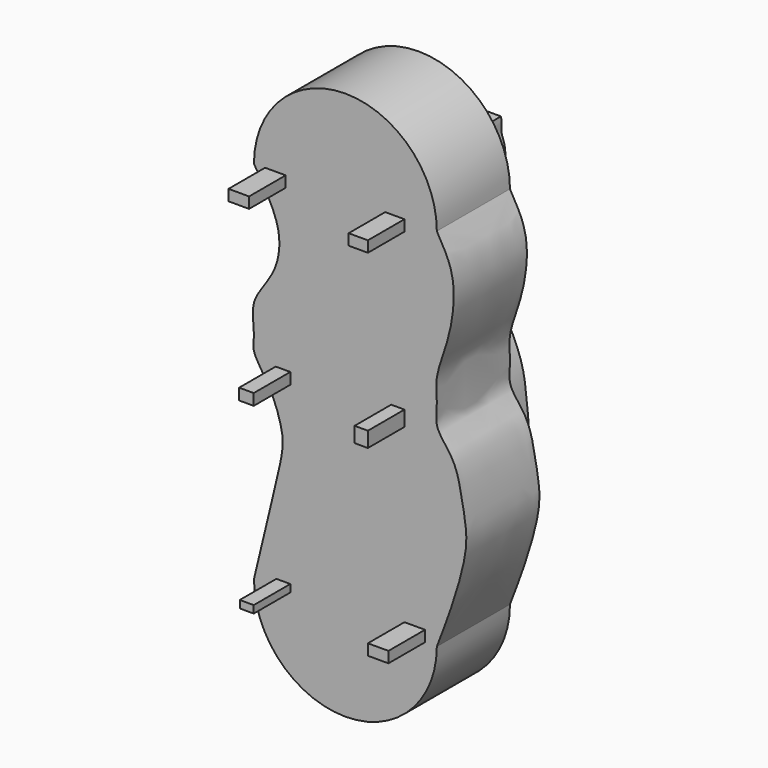
from build123d import *

# Parameters (mm, degrees)
F0_W     = 3.687097691
F0_H     = 4.2401612736
F0_W_2   = 4.0558064356
F0_H_2   = 3.1340322457
F0_W_3   = 5.7149995118
F0_H_3   = 3.0520937026
F0_W_4   = 3.871451132
F0_H_4   = 2.0791524881
F0_W_5   = 5.7150013745
F0_W_6   = 5.3462898359
F1_DEPTH = 25.4
F2_DEPTH = 25.4
F3_DEPTH = 25.4
F4_DEPTH = 38.1


with BuildPart() as f1:
    # F0 (on Front) → F1 (new body)
    with BuildSketch(Plane.XZ):
        with BuildLine():
            ThreePointArc((-25.4, -50.8), (0, -76.2), (25.4, -50.8))
            Line((25.4, -50.8), (22.1225824207, -50.8))
            Line((22.1225824207, -50.8), (16.4075810462, -50.8))
            Line((16.4075810462, -50.8), (6.0837119818, -50.8))
            Line((6.0837119818, -50.8), (-8.6646769196, -50.8))
            Line((-8.6646769196, -50.8), (-15.3014520183, -50.8))
            Line((-15.3014520183, -50.8), (-19.1729031503, -50.8))
            Line((-19.1729031503, -50.8), (-25.4, -50.8))
        make_face()
        with BuildLine():
            add(Edge.make_bspline(
                [(25.4, 50.8), (26.4777169783, 48.9479202677), (28.6861178129, 45.1527360877), (30.6932831349, 38.2079324244), (29.2102996032, 25.6833194496), (24.6181151455, 15.2644920213), (25.7208382238, 8.8851894458), (24.8210743035, 3.3793927812), (27.3376351659, -0.1317957862), (31.0361416521, -4.8152447407), (32.6289703178, -13.8253537267), (33.7770047901, -20.2747103968), (33.428230529, -26.4357670674), (30.3215961917, -37.8680055499), (27.0946961941, -46.3470134235), (25.4, -50.8)],
                knots=[0, 0, 0, 0, 0.0692376704, 0.1418781853, 0.2392837533, 0.3315708581, 0.4002107054, 0.4625003579, 0.5171786982, 0.583671378, 0.6664731761, 0.7364677518, 0.8031231248, 0.8966046387, 1, 1, 1, 1], degree=3))
            Line((25.4, 50.8), (16.4075810462, 50.8))
            Line((16.4075810462, 50.8), (16.4075810462, 47.7479062974))
            Line((16.4075810462, 47.7479062974), (11.0612912104, 47.7479062974))
            Line((11.0612912104, 47.7479062974), (11.0612912104, 50.8))
            Line((11.0612912104, 50.8), (2.5809679646, 50.8))
            add(Edge.make_bspline(
                [(6.0837119818, -50.8), (6.7526639673, -49.080617066), (8.4312184516, -44.7662895858), (11.3526863866, -31.110646258), (9.7718678352, -16.7741945721), (8.9898940513, -8.9270108424), (5.746817019, -0.2348690969), (-0.5661221974, 9.6149802874), (0.0008754514, 12.054506702), (1.1370686549, 18.126460212), (3.4894802849, 22.4144521985), (4.2460147527, 34.4624233221), (3.960019898, 44.2593532606), (2.5398283889, 46.6632712676), (2.8657296807, 49.0471311706), (2.6723084934, 50.2377475739), (2.5809679646, 50.8)],
                knots=[0, 0, 0, 0, 0.0680835046, 0.1708371819, 0.2755848247, 0.3513981135, 0.4367786008, 0.5279622658, 0.5704266042, 0.6357952172, 0.6975722078, 0.7934500663, 0.8792600663, 0.9226956826, 0.963494086, 1, 1, 1, 1], degree=3))
            Line((6.0837119818, -50.8), (16.4075810462, -50.8))
            Line((16.4075810462, -50.8), (16.4075810462, -47.7479062974))
            Line((16.4075810462, -47.7479062974), (22.1225824207, -47.7479062974))
            Line((22.1225824207, -47.7479062974), (22.1225824207, -50.8))
            Line((22.1225824207, -50.8), (25.4, -50.8))
        make_face()
        with Locations((14.5640322007, 2.1200806368)):
            Rectangle(F0_W, F0_H, mode=Mode.SUBTRACT)
        with BuildLine():
            Line((-22.3069358617, 50.8), (-25.4, 50.8))
            add(Edge.make_bspline(
                [(-25.4, 50.8), (-23.9457888424, 48.4062601984), (-21.0240229952, 43.5968161487), (-17.5382201021, 35.4945567937), (-19.2672156417, 25.1355979551), (-26.9197620067, 17.5072559241), (-24.8862082187, 9.032964073), (-26.3256337578, 4.7152512749), (-20.356751104, -2.5534247793), (-17.4203871867, -11.891004327), (-17.2704408034, -16.799434963), (-19.7618335753, -27.3251135996), (-23.2563408131, -41.8747303107), (-25.4, -50.8)],
                knots=[0, 0, 0, 0, 0.0868305692, 0.1744578772, 0.2688447789, 0.3645550375, 0.4478464969, 0.508128426, 0.5974149732, 0.6911047095, 0.7553911578, 0.8499479452, 1, 1, 1, 1], degree=3))
            Line((-25.4, -50.8), (-19.1729031503, -50.8))
            Line((-19.1729031503, -50.8), (-19.1729031503, -48.7208475119))
            Line((-19.1729031503, -48.7208475119), (-15.3014520183, -48.7208475119))
            Line((-15.3014520183, -48.7208475119), (-15.3014520183, -50.8))
            Line((-15.3014520183, -50.8), (-8.6646769196, -50.8))
            add(Edge.make_bspline(
                [(-8.6646769196, -50.8), (-7.8882136411, -48.7208475119), (-5.9978741559, -43.6590446512), (-2.4524628144, -29.5189412564), (-2.8134786099, -16.0801708021), (-3.4674009438, -11.6014648726), (-7.2501120433, -1.4562577191), (-13.4067600488, 7.2161554479), (-12.8603591818, 11.3475544545), (-12.4979329814, 17.3130331381), (-7.8686094851, 22.6070259059), (-6.7588523591, 36.2531826531), (-9.6606783541, 42.5298504496), (-10.5829903078, 47.9757970771), (-11.061290279, 50.8)],
                knots=[0, 0, 0, 0, 0.0775376634, 0.1887693993, 0.2924121888, 0.3530814771, 0.4470014848, 0.5397176399, 0.5961130824, 0.6628348922, 0.7386673918, 0.8418289129, 0.917974362, 1, 1, 1, 1], degree=3))
            Line((-11.061290279, 50.8), (-16.5919363499, 50.8))
            Line((-16.5919363499, 50.8), (-16.5919363499, 47.7479062974))
            Line((-16.5919363499, 47.7479062974), (-22.3069358617, 47.7479062974))
            Line((-22.3069358617, 47.7479062974), (-22.3069358617, 50.8))
        make_face()
        with Locations((-17.3293552361, 1.5670161229)):
            Rectangle(F0_W_2, F0_H_2, mode=Mode.SUBTRACT)
        with BuildLine():
            Line((16.4075810462, 50.8), (25.4, 50.8))
            ThreePointArc((25.4, 50.8), (0, 76.2), (-25.4, 50.8))
            Line((-25.4, 50.8), (-22.3069358617, 50.8))
            Line((-22.3069358617, 50.8), (-16.5919363499, 50.8))
            Line((-16.5919363499, 50.8), (-11.061290279, 50.8))
            Line((-11.061290279, 50.8), (2.5809679646, 50.8))
            Line((2.5809679646, 50.8), (11.0612912104, 50.8))
            Line((11.0612912104, 50.8), (16.4075810462, 50.8))
        make_face()
        with Locations((-19.4494361058, 49.2739531487)):
            Rectangle(F0_W_3, F0_H_3)
        with BuildLine():
            add(Edge.make_bspline(
                [(6.0837119818, -50.8), (6.7526639673, -49.080617066), (8.4312184516, -44.7662895858), (11.3526863866, -31.110646258), (9.7718678352, -16.7741945721), (8.9898940513, -8.9270108424), (5.746817019, -0.2348690969), (-0.5661221974, 9.6149802874), (0.0008754514, 12.054506702), (1.1370686549, 18.126460212), (3.4894802849, 22.4144521985), (4.2460147527, 34.4624233221), (3.960019898, 44.2593532606), (2.5398283889, 46.6632712676), (2.8657296807, 49.0471311706), (2.6723084934, 50.2377475739), (2.5809679646, 50.8)],
                knots=[0, 0, 0, 0, 0.0680835046, 0.1708371819, 0.2755848247, 0.3513981135, 0.4367786008, 0.5279622658, 0.5704266042, 0.6357952172, 0.6975722078, 0.7934500663, 0.8792600663, 0.9226956826, 0.963494086, 1, 1, 1, 1], degree=3))
            Line((2.5809679646, 50.8), (-11.061290279, 50.8))
            add(Edge.make_bspline(
                [(-8.6646769196, -50.8), (-7.8882136411, -48.7208475119), (-5.9978741559, -43.6590446512), (-2.4524628144, -29.5189412564), (-2.8134786099, -16.0801708021), (-3.4674009438, -11.6014648726), (-7.2501120433, -1.4562577191), (-13.4067600488, 7.2161554479), (-12.8603591818, 11.3475544545), (-12.4979329814, 17.3130331381), (-7.8686094851, 22.6070259059), (-6.7588523591, 36.2531826531), (-9.6606783541, 42.5298504496), (-10.5829903078, 47.9757970771), (-11.061290279, 50.8)],
                knots=[0, 0, 0, 0, 0.0775376634, 0.1887693993, 0.2924121888, 0.3530814771, 0.4470014848, 0.5397176399, 0.5961130824, 0.6628348922, 0.7386673918, 0.8418289129, 0.917974362, 1, 1, 1, 1], degree=3))
            Line((-8.6646769196, -50.8), (6.0837119818, -50.8))
        make_face()
        with Locations((-17.3293552361, 1.5670161229)):
            Rectangle(F0_W_2, F0_H_2)
        with Locations((-17.2371775843, -49.7604237559)):
            Rectangle(F0_W_4, F0_H_4)
        with Locations((19.2650817335, -49.2739531487)):
            Rectangle(F0_W_5, F0_H_3)
        with Locations((14.5640322007, 2.1200806368)):
            Rectangle(F0_W, F0_H)
        with Locations((13.7344361283, 49.2739531487)):
            Rectangle(F0_W_6, F0_H_3)
    extrude(amount=F1_DEPTH)

    # F0 (on Front) → F2 (join)
    with BuildSketch(Plane.XZ):
        with BuildLine():
            add(Edge.make_bspline(
                [(25.4, 50.8), (26.4777169783, 48.9479202677), (28.6861178129, 45.1527360877), (30.6932831349, 38.2079324244), (29.2102996032, 25.6833194496), (24.6181151455, 15.2644920213), (25.7208382238, 8.8851894458), (24.8210743035, 3.3793927812), (27.3376351659, -0.1317957862), (31.0361416521, -4.8152447407), (32.6289703178, -13.8253537267), (33.7770047901, -20.2747103968), (33.428230529, -26.4357670674), (30.3215961917, -37.8680055499), (27.0946961941, -46.3470134235), (25.4, -50.8)],
                knots=[0, 0, 0, 0, 0.0692376704, 0.1418781853, 0.2392837533, 0.3315708581, 0.4002107054, 0.4625003579, 0.5171786982, 0.583671378, 0.6664731761, 0.7364677518, 0.8031231248, 0.8966046387, 1, 1, 1, 1], degree=3))
            Line((25.4, 50.8), (16.4075810462, 50.8))
            Line((16.4075810462, 50.8), (16.4075810462, 47.7479062974))
            Line((16.4075810462, 47.7479062974), (11.0612912104, 47.7479062974))
            Line((11.0612912104, 47.7479062974), (11.0612912104, 50.8))
            Line((11.0612912104, 50.8), (2.5809679646, 50.8))
            add(Edge.make_bspline(
                [(6.0837119818, -50.8), (6.7526639673, -49.080617066), (8.4312184516, -44.7662895858), (11.3526863866, -31.110646258), (9.7718678352, -16.7741945721), (8.9898940513, -8.9270108424), (5.746817019, -0.2348690969), (-0.5661221974, 9.6149802874), (0.0008754514, 12.054506702), (1.1370686549, 18.126460212), (3.4894802849, 22.4144521985), (4.2460147527, 34.4624233221), (3.960019898, 44.2593532606), (2.5398283889, 46.6632712676), (2.8657296807, 49.0471311706), (2.6723084934, 50.2377475739), (2.5809679646, 50.8)],
                knots=[0, 0, 0, 0, 0.0680835046, 0.1708371819, 0.2755848247, 0.3513981135, 0.4367786008, 0.5279622658, 0.5704266042, 0.6357952172, 0.6975722078, 0.7934500663, 0.8792600663, 0.9226956826, 0.963494086, 1, 1, 1, 1], degree=3))
            Line((6.0837119818, -50.8), (16.4075810462, -50.8))
            Line((16.4075810462, -50.8), (16.4075810462, -47.7479062974))
            Line((16.4075810462, -47.7479062974), (22.1225824207, -47.7479062974))
            Line((22.1225824207, -47.7479062974), (22.1225824207, -50.8))
            Line((22.1225824207, -50.8), (25.4, -50.8))
        make_face()
        with Locations((14.5640322007, 2.1200806368)):
            Rectangle(F0_W, F0_H, mode=Mode.SUBTRACT)
        with BuildLine():
            Line((16.4075810462, 50.8), (25.4, 50.8))
            ThreePointArc((25.4, 50.8), (0, 76.2), (-25.4, 50.8))
            Line((-25.4, 50.8), (-22.3069358617, 50.8))
            Line((-22.3069358617, 50.8), (-16.5919363499, 50.8))
            Line((-16.5919363499, 50.8), (-11.061290279, 50.8))
            Line((-11.061290279, 50.8), (2.5809679646, 50.8))
            Line((2.5809679646, 50.8), (11.0612912104, 50.8))
            Line((11.0612912104, 50.8), (16.4075810462, 50.8))
        make_face()
        with BuildLine():
            Line((-22.3069358617, 50.8), (-25.4, 50.8))
            add(Edge.make_bspline(
                [(-25.4, 50.8), (-23.9457888424, 48.4062601984), (-21.0240229952, 43.5968161487), (-17.5382201021, 35.4945567937), (-19.2672156417, 25.1355979551), (-26.9197620067, 17.5072559241), (-24.8862082187, 9.032964073), (-26.3256337578, 4.7152512749), (-20.356751104, -2.5534247793), (-17.4203871867, -11.891004327), (-17.2704408034, -16.799434963), (-19.7618335753, -27.3251135996), (-23.2563408131, -41.8747303107), (-25.4, -50.8)],
                knots=[0, 0, 0, 0, 0.0868305692, 0.1744578772, 0.2688447789, 0.3645550375, 0.4478464969, 0.508128426, 0.5974149732, 0.6911047095, 0.7553911578, 0.8499479452, 1, 1, 1, 1], degree=3))
            Line((-25.4, -50.8), (-19.1729031503, -50.8))
            Line((-19.1729031503, -50.8), (-19.1729031503, -48.7208475119))
            Line((-19.1729031503, -48.7208475119), (-15.3014520183, -48.7208475119))
            Line((-15.3014520183, -48.7208475119), (-15.3014520183, -50.8))
            Line((-15.3014520183, -50.8), (-8.6646769196, -50.8))
            add(Edge.make_bspline(
                [(-8.6646769196, -50.8), (-7.8882136411, -48.7208475119), (-5.9978741559, -43.6590446512), (-2.4524628144, -29.5189412564), (-2.8134786099, -16.0801708021), (-3.4674009438, -11.6014648726), (-7.2501120433, -1.4562577191), (-13.4067600488, 7.2161554479), (-12.8603591818, 11.3475544545), (-12.4979329814, 17.3130331381), (-7.8686094851, 22.6070259059), (-6.7588523591, 36.2531826531), (-9.6606783541, 42.5298504496), (-10.5829903078, 47.9757970771), (-11.061290279, 50.8)],
                knots=[0, 0, 0, 0, 0.0775376634, 0.1887693993, 0.2924121888, 0.3530814771, 0.4470014848, 0.5397176399, 0.5961130824, 0.6628348922, 0.7386673918, 0.8418289129, 0.917974362, 1, 1, 1, 1], degree=3))
            Line((-11.061290279, 50.8), (-16.5919363499, 50.8))
            Line((-16.5919363499, 50.8), (-16.5919363499, 47.7479062974))
            Line((-16.5919363499, 47.7479062974), (-22.3069358617, 47.7479062974))
            Line((-22.3069358617, 47.7479062974), (-22.3069358617, 50.8))
        make_face()
        with Locations((-17.3293552361, 1.5670161229)):
            Rectangle(F0_W_2, F0_H_2, mode=Mode.SUBTRACT)
        with BuildLine():
            ThreePointArc((-25.4, -50.8), (0, -76.2), (25.4, -50.8))
            Line((25.4, -50.8), (22.1225824207, -50.8))
            Line((22.1225824207, -50.8), (16.4075810462, -50.8))
            Line((16.4075810462, -50.8), (6.0837119818, -50.8))
            Line((6.0837119818, -50.8), (-8.6646769196, -50.8))
            Line((-8.6646769196, -50.8), (-15.3014520183, -50.8))
            Line((-15.3014520183, -50.8), (-19.1729031503, -50.8))
            Line((-19.1729031503, -50.8), (-25.4, -50.8))
        make_face()
    extrude(amount=F2_DEPTH)


with BuildPart() as f3:
    # F0 (on Front) → F3 (new body)
    with BuildSketch(Plane.XZ):
        with BuildLine():
            add(Edge.make_bspline(
                [(6.0837119818, -50.8), (6.7526639673, -49.080617066), (8.4312184516, -44.7662895858), (11.3526863866, -31.110646258), (9.7718678352, -16.7741945721), (8.9898940513, -8.9270108424), (5.746817019, -0.2348690969), (-0.5661221974, 9.6149802874), (0.0008754514, 12.054506702), (1.1370686549, 18.126460212), (3.4894802849, 22.4144521985), (4.2460147527, 34.4624233221), (3.960019898, 44.2593532606), (2.5398283889, 46.6632712676), (2.8657296807, 49.0471311706), (2.6723084934, 50.2377475739), (2.5809679646, 50.8)],
                knots=[0, 0, 0, 0, 0.0680835046, 0.1708371819, 0.2755848247, 0.3513981135, 0.4367786008, 0.5279622658, 0.5704266042, 0.6357952172, 0.6975722078, 0.7934500663, 0.8792600663, 0.9226956826, 0.963494086, 1, 1, 1, 1], degree=3))
            Line((2.5809679646, 50.8), (-11.061290279, 50.8))
            add(Edge.make_bspline(
                [(-8.6646769196, -50.8), (-7.8882136411, -48.7208475119), (-5.9978741559, -43.6590446512), (-2.4524628144, -29.5189412564), (-2.8134786099, -16.0801708021), (-3.4674009438, -11.6014648726), (-7.2501120433, -1.4562577191), (-13.4067600488, 7.2161554479), (-12.8603591818, 11.3475544545), (-12.4979329814, 17.3130331381), (-7.8686094851, 22.6070259059), (-6.7588523591, 36.2531826531), (-9.6606783541, 42.5298504496), (-10.5829903078, 47.9757970771), (-11.061290279, 50.8)],
                knots=[0, 0, 0, 0, 0.0775376634, 0.1887693993, 0.2924121888, 0.3530814771, 0.4470014848, 0.5397176399, 0.5961130824, 0.6628348922, 0.7386673918, 0.8418289129, 0.917974362, 1, 1, 1, 1], degree=3))
            Line((-8.6646769196, -50.8), (6.0837119818, -50.8))
        make_face()
    extrude(amount=-F3_DEPTH)


with BuildPart() as f4:
    # F0 (on Front) → F4 (new body)
    with BuildSketch(Plane.XZ):
        with Locations((-19.4494361058, 49.2739531487)):
            Rectangle(F0_W_3, F0_H_3)
    extrude(amount=F4_DEPTH)


with BuildPart() as f4b:
    # F0 (on Front) → F4, piece 2 (new body)
    with BuildSketch(Plane.XZ):
        with Locations((13.7344361283, 49.2739531487)):
            Rectangle(F0_W_6, F0_H_3)
    extrude(amount=F4_DEPTH)


with BuildPart() as f4c:
    # F0 (on Front) → F4, piece 3 (new body)
    with BuildSketch(Plane.XZ):
        with Locations((14.5640322007, 2.1200806368)):
            Rectangle(F0_W, F0_H)
    extrude(amount=F4_DEPTH)


with BuildPart() as f4d:
    # F0 (on Front) → F4, piece 4 (new body)
    with BuildSketch(Plane.XZ):
        with Locations((-17.3293552361, 1.5670161229)):
            Rectangle(F0_W_2, F0_H_2)
    extrude(amount=F4_DEPTH)


with BuildPart() as f4e:
    # F0 (on Front) → F4, piece 5 (new body)
    with BuildSketch(Plane.XZ):
        with Locations((-17.2371775843, -49.7604237559)):
            Rectangle(F0_W_4, F0_H_4)
    extrude(amount=F4_DEPTH)


with BuildPart() as f4f:
    # F0 (on Front) → F4, piece 6 (new body)
    with BuildSketch(Plane.XZ):
        with Locations((19.2650817335, -49.2739531487)):
            Rectangle(F0_W_5, F0_H_3)
    extrude(amount=F4_DEPTH)


solid = Compound([f1.part, f3.part, f4.part, f4b.part, f4c.part, f4d.part, f4e.part, f4f.part])
